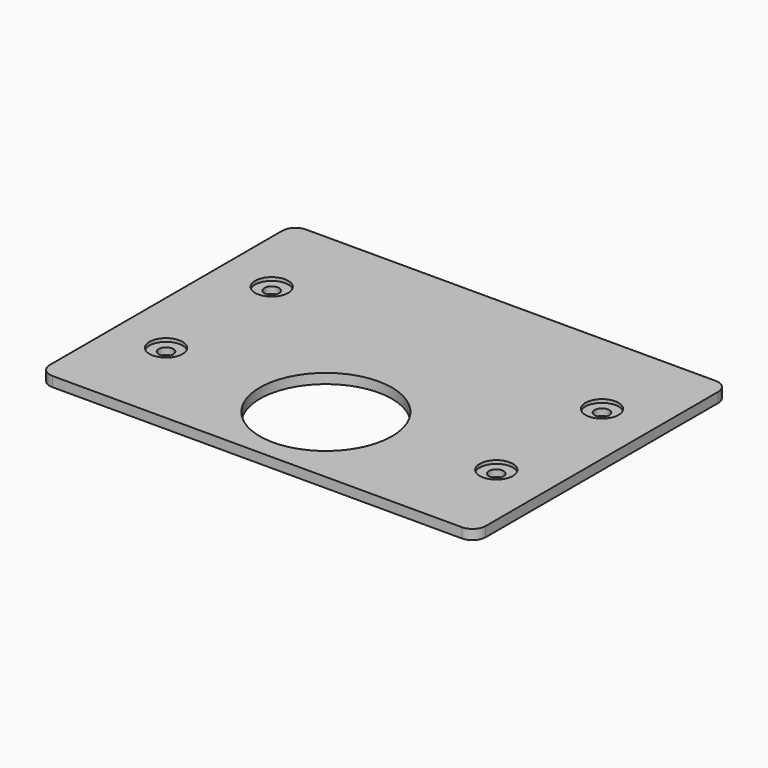
from build123d import *

# Parameters (mm, degrees)
F0_W     = 66
F0_H     = 48
F0_R     = 1.1
F0_R_2   = 10
F1_DEPTH = 1.5
F2_R     = 2
F3_R     = 2.5
F4_DEPTH = 0.5


with BuildPart() as f1:
    # F0 (on Top) → F1 (new body)
    with BuildSketch(Plane.XY):
        Rectangle(F0_W, F0_H)
        with Locations((-25, -9.9985)):
            Circle(F0_R, mode=Mode.SUBTRACT)
        with Locations((0, -10.9985)):
            Circle(F0_R_2, mode=Mode.SUBTRACT)
        with Locations((25, -9.9985)):
            Circle(F0_R, mode=Mode.SUBTRACT)
        with Locations((-25, 9.9985)):
            Circle(F0_R, mode=Mode.SUBTRACT)
        with Locations((25, 9.9985)):
            Circle(F0_R, mode=Mode.SUBTRACT)
    extrude(amount=F1_DEPTH)

    # F2
    f2_edges = [f1.edges().sort_by_distance(p)[0] for p in [
        (-33, -24, 0.75),
        (33, -24, 0.75),
        (-33, 24, 0.75),
        (33, 24, 0.75),
    ]]
    fillet(f2_edges, radius=F2_R)

    # F3 (on face) → F4 (cut)
    with BuildSketch(Plane.XY.offset(1.5)):
        with Locations((-25, 9.9985)):
            Circle(F3_R)
        with Locations((25, 9.9985)):
            Circle(F3_R)
        with Locations((-25, -9.9985)):
            Circle(F3_R)
        with Locations((25, -9.9985)):
            Circle(F3_R)
    extrude(amount=-F4_DEPTH, mode=Mode.SUBTRACT)


solid = f1.part
